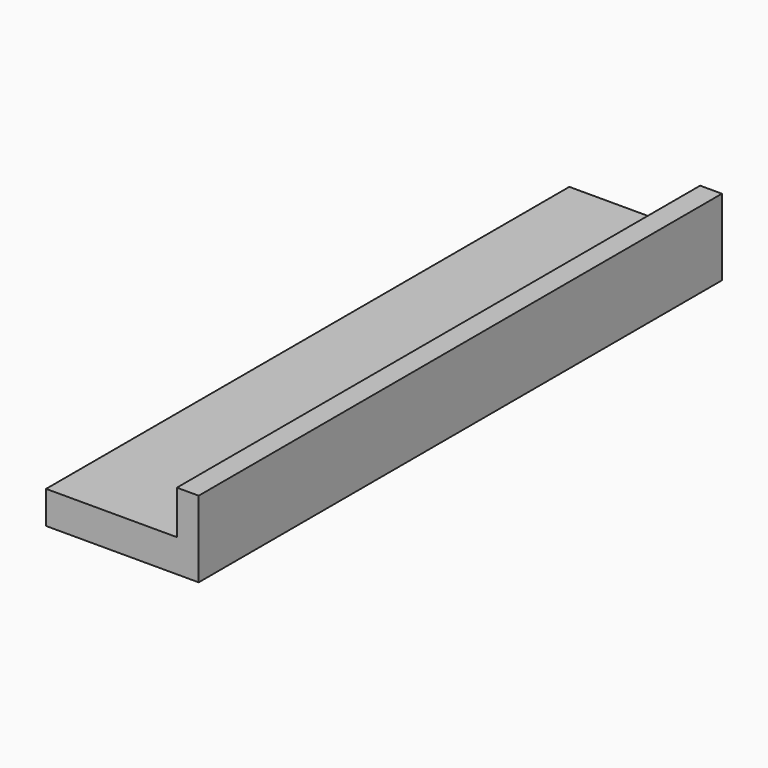
from build123d import *

# Parameters (mm, degrees)
PAD_DEPTH = 30


with BuildPart() as part:
    # Sketch → Pad (new body)
    with BuildSketch(Plane.XZ):
        Polygon((0, 0), (-7, 0), (-7, 1.5), (-1, 1.5), (-1, 3.5), (0, 3.5), align=None)
    extrude(amount=PAD_DEPTH)


solid = part.part
